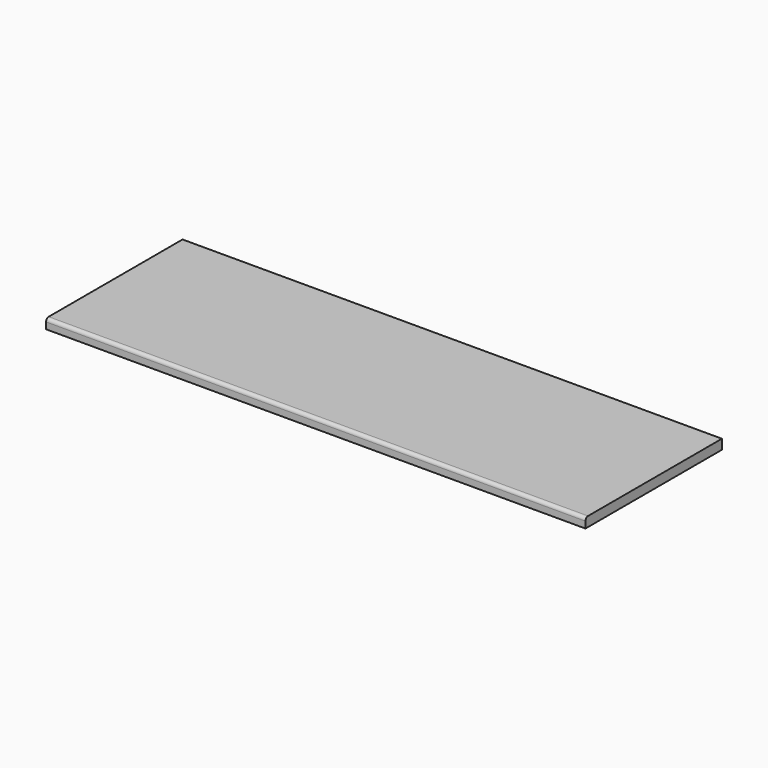
from build123d import *

# Parameters (mm, degrees)
F0_W     = 2108.2
F0_H     = 38.1
F1_DEPTH = 666.75
F2_R     = 12.7


with BuildPart() as f1:
    # F0 (on Front) → F1 (new body)
    with BuildSketch(Plane.XZ):
        with Locations((1001.476438, -1.932761)):
            Rectangle(F0_W, F0_H)
    extrude(amount=-F1_DEPTH)

    # F2
    f2_edges = [f1.edges().sort_by_distance(p)[0] for p in [
        (1001.476438, 0, 17.117239),
    ]]
    fillet(f2_edges, radius=F2_R)


solid = f1.part
